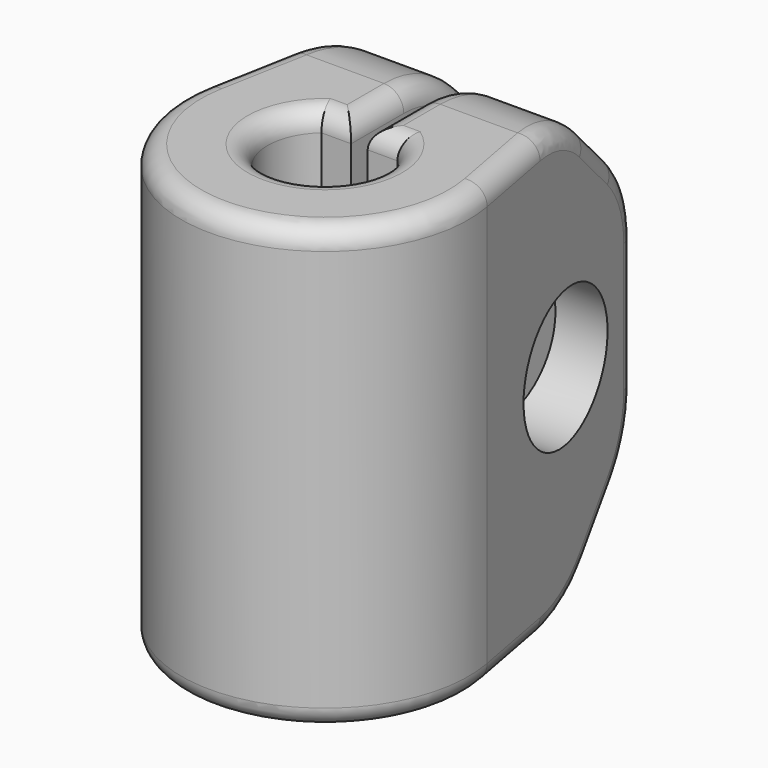
from build123d import *

# Parameters (mm, degrees)
EXTRUDE002_DEPTH     = 10
SKETCH004_R          = 3.1
EXTRUDE001_DEPTH     = 10
EXTRUDE_DEPTH        = 20
SKETCH001_R          = 4.1
POCKET_DEPTH         = 10
POCKET001_DEPTH      = 10
SKETCH003_R          = 1.55
POCKET002_DEPTH      = 6.126038
POCKET002_DEPTH_BACK = -6.875962
CHAMFER_SIZE         = 5
FILLET_R             = 5
FILLET001_R          = 0.9


with BuildPart() as extrude002:
    # Sketch005 → Extrude002 (new body)
    with BuildSketch(Plane.YZ.offset(-0.375038)):
        Polygon((9.659679, 11.55), (6.975, 13.1), (4.290321, 11.55), (4.290321, 8.45), (6.975, 6.9), (9.659679, 8.45), align=None)
    extrude(amount=-EXTRUDE002_DEPTH)


with BuildPart() as extrude002_1:
    # Extrude002 placement: moved
    add(extrude002.part.moved(Location((-2, 0, 0))))


with BuildPart() as extrude001:
    # Sketch004 → Extrude001 (new body)
    with BuildSketch(Plane(origin=(0.374962, 0, 0), x_dir=(0, -1, 0), z_dir=(-1, 0, 0))):
        with Locations((-6.975, 10)):
            Circle(SKETCH004_R)
    extrude(amount=-EXTRUDE001_DEPTH)


with BuildPart() as extrude001_1:
    # Extrude001 placement: moved
    add(extrude001.part.moved(Location((2, 0, 0))))


with BuildPart() as fillet001:
    # Sketch → Extrude (new body)
    with BuildSketch(Plane.XY):
        with BuildLine():
            Line((-0.375038, 12), (-0.375038, 0))
            Line((-0.375038, 0), (0.374962, 0))
            Line((0.374962, 0), (0.374962, 12))
            Line((0.374962, 12), (4.374962, 12))
            Line((4.374962, 12), (6.389918, 1.191196))
            ThreePointArc((-6.389921, 1.191182), (7e-06, -6.5), (6.389918, 1.191196))
            Line((-4.375038, 12), (-6.389921, 1.191182))
            Line((-0.375038, 12), (-4.375038, 12))
        make_face()
    extrude(amount=EXTRUDE_DEPTH)

    # Sketch001 → Pocket (cut)
    with BuildSketch(Plane(origin=(0, 0, 0), x_dir=(1, 0, 0), z_dir=(0, 0, -1))):
        Circle(SKETCH001_R)
    extrude(amount=-POCKET_DEPTH, mode=Mode.SUBTRACT)

    # Sketch002 → Pocket001 (cut)
    with BuildSketch(Plane.XY.offset(20)):
        with BuildLine():
            ThreePointArc((-1.719738, 1.95), (0, -2.6), (1.719738, 1.95))
            Line((-1.719738, 1.95), (1.719738, 1.95))
        make_face()
    extrude(amount=-POCKET001_DEPTH, mode=Mode.SUBTRACT)

    # Sketch003 → Pocket002 (cut, two sides)
    with BuildSketch(Plane(origin=(0.374962, 0, 0), x_dir=(0, -1, 0), z_dir=(-1, 0, 0))) as pocket002_sk:
        with Locations((-6.975, 10)):
            Circle(SKETCH003_R)
    extrude(amount=-POCKET002_DEPTH, mode=Mode.SUBTRACT)
    extrude(pocket002_sk.sketch, amount=-POCKET002_DEPTH_BACK, mode=Mode.SUBTRACT)

    # Cut: cut Extrude001
    add(extrude001_1.part, mode=Mode.SUBTRACT)

    # Cut001: cut Extrude002
    add(extrude002_1.part, mode=Mode.SUBTRACT)

    # Chamfer
    chamfer_edges = [fillet001.edges().sort_by_distance(p)[0] for p in [
        (-2.375038, 12, 0),
        (2.374962, 12, 0),
        (-2.375038, 12, 20),
        (2.374962, 12, 20),
    ]]
    chamfer(chamfer_edges, length=CHAMFER_SIZE)

    # Fillet
    fillet_edges = [fillet001.edges().sort_by_distance(p)[0] for p in [
        (-2.841066, 7, 0),
        (2.841007, 7, 0),
        (-2.375038, 12, 5),
        (-2.375038, 12, 15),
        (-2.841066, 7, 20),
        (2.841007, 7, 20),
        (2.374962, 12, 5),
        (2.374962, 12, 15),
    ]]
    fillet(fillet_edges, radius=FILLET_R)

    # Fillet001
    fillet001_edges = [fillet001.edges().sort_by_distance(p)[0] for p in [
        (-0.375038, 3.439466, 20),
        (-1.047388, 1.95, 20),
        (-6.041542, 3.060057, 20),
        (7e-06, -6.5, 20),
        (6.041527, 3.060064, 20),
        (0, -2.6, 20),
        (0.374962, 3.439466, 20),
        (1.04735, 1.95, 20),
    ]]
    fillet(fillet001_edges, radius=FILLET001_R)


solid = fillet001.part
